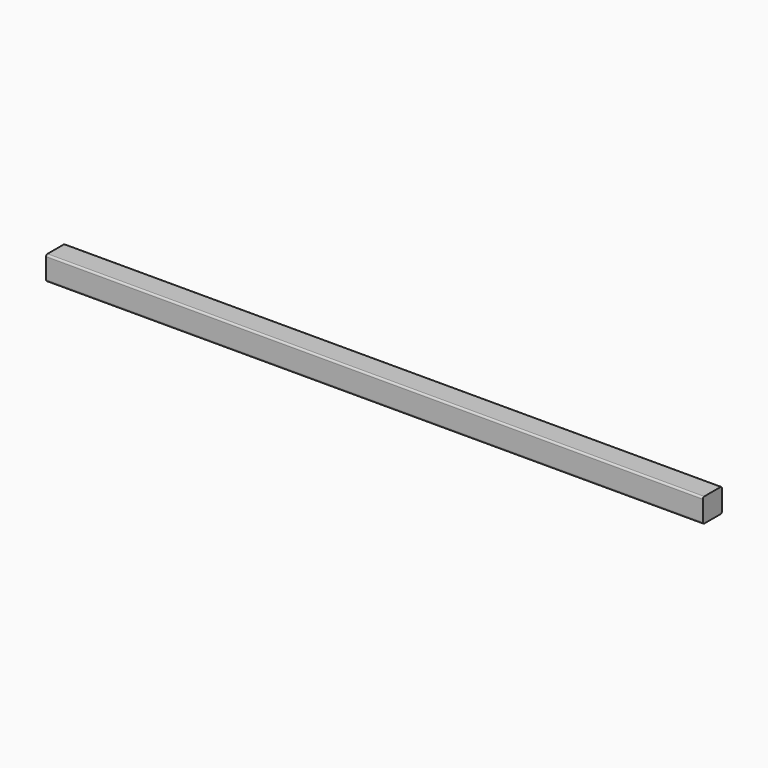
from build123d import *

# Parameters (mm, degrees)
F1_DEPTH = 275


with BuildPart() as f1:
    # F0 (on Right) → F1 (new body, symmetric)
    with BuildSketch(Plane.YZ):
        with BuildLine():
            Line((8.5, 10), (-8.5, 10))
            ThreePointArc((-8.5, 10), (-9.56066, 9.56066), (-10, 8.5))
            Line((-10, 8.5), (-10, -8.5))
            ThreePointArc((-10, -8.5), (-9.56066, -9.56066), (-8.5, -10))
            Line((-8.5, -10), (8.5, -10))
            ThreePointArc((8.5, -10), (9.56066, -9.56066), (10, -8.5))
            Line((10, -8.5), (10, 8.5))
            ThreePointArc((10, 8.5), (9.56066, 9.56066), (8.5, 10))
        make_face()
    extrude(amount=F1_DEPTH, both=True)


solid = f1.part
